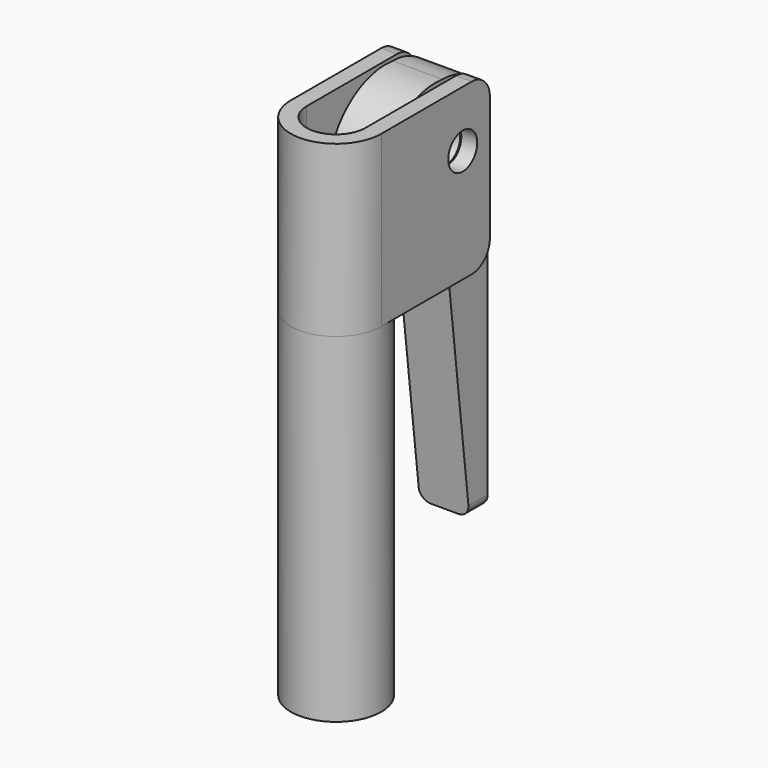
from build123d import *

# Parameters (mm, degrees)
F0_R      = 4
F0_R_2    = 2.6
F1_DEPTH  = 30
F3_DEPTH  = 15
F6_D      = 3.2
F7_R      = 1.6
F8_DEPTH  = 2.2
F9_R      = 3
F9_R_2    = 1.6
F10_DEPTH = 0.3
F11_R     = 3
F11_R_2   = 1.6
F12_DEPTH = 0.3
F13_R     = 2
F14_R     = 1


with BuildPart() as f1:
    # F0 (on Top) → F1 (new body)
    with BuildSketch(Plane.XY):
        Circle(F0_R)
        Circle(F0_R_2, mode=Mode.SUBTRACT)
    extrude(amount=F1_DEPTH)

    # F2 (on face) → F3 (join)
    with BuildSketch(Plane.XY.offset(30)):
        with BuildLine():
            ThreePointArc((2.6, 0), (0, -2.6), (-2.6, 0))
            Line((-2.6, 0), (-2.6, 3.0397368307))
            ThreePointArc((-2.6, 3.0397368307), (-3.6331804249, 1.6733200531), (-4, 0))
            ThreePointArc((-4, 0), (0, -4), (4, 0))
            ThreePointArc((4, 0), (3.6331804249, 1.6733200531), (2.6, 3.0397368307))
            Line((2.6, 3.0397368307), (2.6, 0))
        make_face()
        with BuildLine():
            Line((2.6, 12), (2.6, 3.0397368307))
            ThreePointArc((2.6, 3.0397368307), (3.6331804249, 1.6733200531), (4, 0))
            Line((4, 0), (4, 12))
            Line((4, 12), (2.6, 12))
        make_face()
        with BuildLine():
            ThreePointArc((-4, 0), (-3.6331804249, 1.6733200531), (-2.6, 3.0397368307))
            Line((-2.6, 3.0397368307), (-2.6, 12))
            Line((-2.6, 12), (-4, 12))
            Line((-4, 12), (-4, 0))
        make_face()
    extrude(amount=F3_DEPTH)

    # F6 (through all)
    with Locations(Plane.YZ.offset(4)):
        with Locations((9, 40)):
            Hole(F6_D / 2)

    # F13
    f13_edges = [f1.edges().sort_by_distance(p)[0] for p in [
        (-3.3, 12, 45),
        (3.3, 12, 45),
        (3.3, 12, 30),
        (-3.3, 12, 30),
    ]]
    fillet(f13_edges, radius=F13_R)


with BuildPart() as f8:
    # F7 (on Right) → F8 (new body, symmetric)
    with BuildSketch(Plane.YZ):
        with BuildLine():
            Line((14, 9.6299987846), (14, 40))
            ThreePointArc((14, 40), (12.5355339059, 36.4644660941), (9, 35))
            Line((9, 35), (9.2738851246, 32.6838446857))
            Line((9.2738851246, 32.6838446857), (12, 9.6299987846))
            Line((12, 9.6299987846), (14, 9.6299987846))
        make_face()
        with BuildLine():
            ThreePointArc((9, 35), (12.5355339059, 36.4644660941), (14, 40))
            ThreePointArc((14, 40), (12.5355339059, 43.5355339059), (9, 45))
            ThreePointArc((9, 45), (7.7492471095, 44.8410347248), (6.5780247299, 44.3742468827))
            ThreePointArc((6.5780247299, 44.3742468827), (4.1589652752, 38.7492471095), (9, 35))
        make_face()
        with Locations((9, 40)):
            Circle(F7_R, mode=Mode.SUBTRACT)
        with BuildLine():
            Line((9.2738851246, 32.6838446857), (9, 35))
            ThreePointArc((9, 35), (4.1589652752, 38.7492471095), (6.5780247299, 44.3742468827))
            ThreePointArc((6.5780247299, 44.3742468827), (3.2206469097, 42.3767931689), (1.804635862, 38.7358152947))
            ThreePointArc((1.804635862, 38.7358152947), (4.0227615669, 33.8381902849), (9.2738851246, 32.6838446857))
        make_face()
        with BuildLine():
            ThreePointArc((6.5780247299, 44.3742468827), (7.7492471095, 44.8410347248), (9, 45))
            ThreePointArc((9, 45), (4.016275588, 43.4599870381), (1.804635862, 38.7358152947))
            ThreePointArc((1.804635862, 38.7358152947), (3.2206469097, 42.3767931689), (6.5780247299, 44.3742468827))
        make_face()
    extrude(amount=F8_DEPTH, both=True)

    # F9 (on face) → F10 (join)
    with BuildSketch(Plane.YZ.offset(2.2)):
        with Locations((9, 40)):
            Circle(F9_R)
        with Locations((9, 40)):
            Circle(F9_R_2, mode=Mode.SUBTRACT)
    extrude(amount=F10_DEPTH)

    # F11 (on face) → F12 (join)
    with BuildSketch(Plane(origin=(-2.2, 0, 0), x_dir=(0, -1, 0), z_dir=(-1, 0, 0))):
        with Locations((-9, 40)):
            Circle(F11_R)
        with Locations((-9, 40)):
            Circle(F11_R_2, mode=Mode.SUBTRACT)
    extrude(amount=F12_DEPTH)

    # F14
    f14_edges = [f8.edges().sort_by_distance(p)[0] for p in [
        (-2.2, 13, 9.629999),
        (2.2, 13, 9.629999),
    ]]
    fillet(f14_edges, radius=F14_R)


solid = Compound([f1.part, f8.part])
